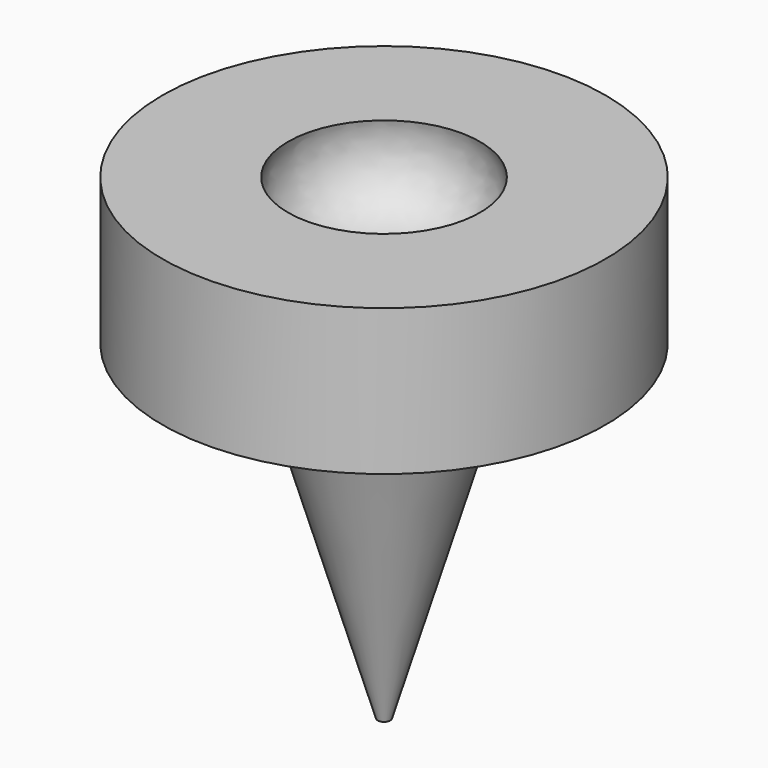
from build123d import *


with BuildPart() as f1:
    # F0 (on Front) → F1 (revolve)
    with BuildSketch(Plane.XZ):
        Polygon((-22.017141, -4.496905), (-22.319819, -4.951383), (-4.005825, -66.336967), (-4.005825, 0.668116), (-20.809785, 0.668116), (-20.809785, 0), (-22.319819, -2.627466), align=None)
        Polygon((-22.319819, 0.668116), (-25.851428, 0.668116), (-22.017141, -4.496905), (-22.319819, -2.627466), align=None)
        with BuildLine():
            Line((-22.207702, 30.295826), (-47.69703, 30.295826))
            Line((-47.69703, 30.295826), (-47.69703, 0.668116))
            Line((-47.69703, 0.668116), (-25.851428, 0.668116))
            Line((-25.851428, 0.668116), (-22.319819, 0.668116))
            Line((-22.319819, 0.668116), (-22.319819, 2.718384))
            Line((-22.319819, 2.718384), (-20.809785, 0.668116))
            Line((-20.809785, 0.668116), (-4.005825, 0.668116))
            Line((-4.005825, 0.668116), (-4.005825, 15.310618))
            ThreePointArc((-4.005825, 15.310618), (-18.17573, 16.64617), (-22.207702, 30.295826))
        make_face()
    revolve(axis=Axis((-2.735825, 0, 4.219405), (0, 0, -1)))


solid = f1.part
